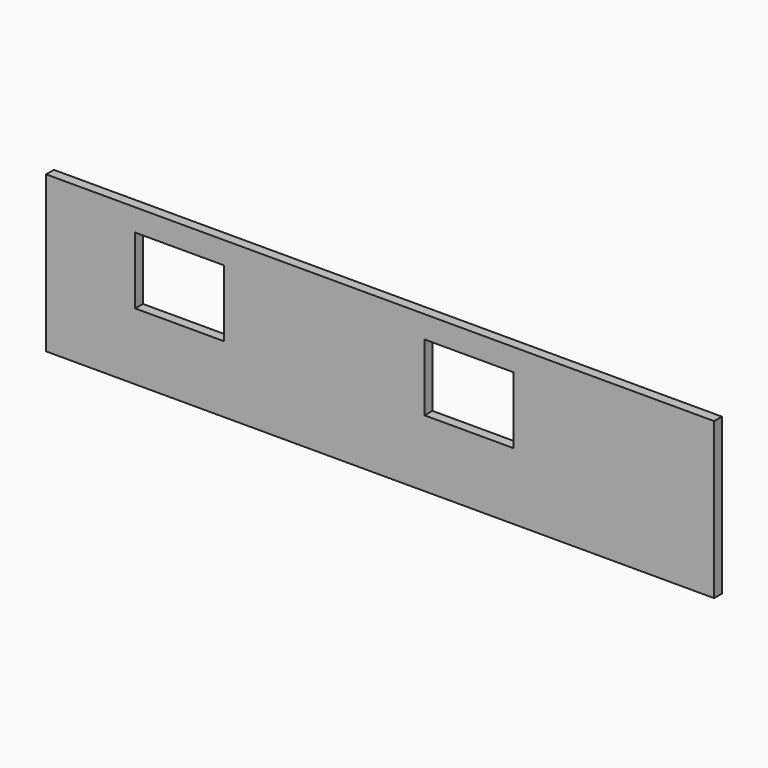
from build123d import *

# Parameters (mm, degrees)
F0_W     = 9144
F0_H     = 133.35
F1_DEPTH = 2133.6
F2_W     = 1219.2
F2_H     = 914.4
F3_DEPTH = 203.2


with BuildPart() as f1:
    # F0 (on Top) → F1 (new body)
    with BuildSketch(Plane.XY):
        with Locations((3491.468594, 26.572129)):
            Rectangle(F0_W, F0_H)
    extrude(amount=F1_DEPTH)

    # F2 (on face) → F3 (cut)
    with BuildSketch(Plane.XZ.offset(40.102871)):
        with Locations((748.268594, 1371.6)):
            Rectangle(F2_W, F2_H)
        with Locations((4710.668594, 1371.588161)):
            Rectangle(F2_W, F2_H)
    extrude(amount=-F3_DEPTH, mode=Mode.SUBTRACT)


solid = f1.part
